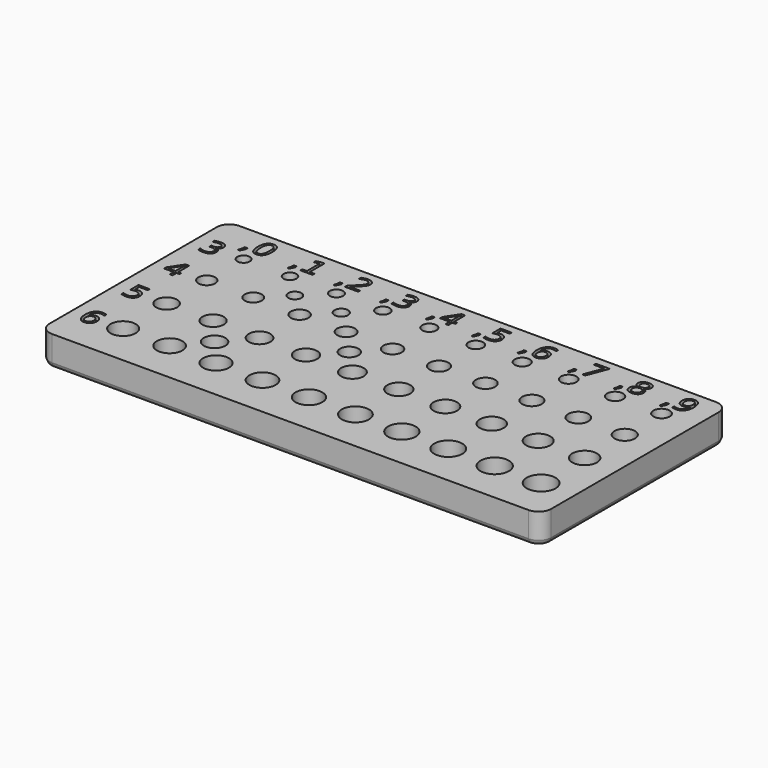
from build123d import *

# Parameters (mm, degrees)
SKETCH005_W     = 120
SKETCH005_H     = 56
SKETCH005_R     = 1.5
SKETCH005_R_2   = 1.55
SKETCH005_R_3   = 1.6
SKETCH005_R_4   = 1.65
SKETCH005_R_5   = 1.7
SKETCH005_R_6   = 1.75
SKETCH005_R_7   = 1.8
SKETCH005_R_8   = 1.85
SKETCH005_R_9   = 1.9
SKETCH005_R_10  = 1.95
SKETCH005_R_11  = 2
SKETCH005_R_12  = 2.05
SKETCH005_R_13  = 2.1
SKETCH005_R_14  = 2.15
SKETCH005_R_15  = 2.2
SKETCH005_R_16  = 2.25
SKETCH005_R_17  = 2.3
SKETCH005_R_18  = 2.35
SKETCH005_R_19  = 2.4
SKETCH005_R_20  = 2.45
SKETCH005_R_21  = 2.5
SKETCH005_R_22  = 2.55
SKETCH005_R_23  = 2.6
SKETCH005_R_24  = 2.65
SKETCH005_R_25  = 2.7
SKETCH005_R_26  = 2.75
SKETCH005_R_27  = 2.8
SKETCH005_R_28  = 2.85
SKETCH005_R_29  = 2.9
SKETCH005_R_30  = 2.95
SKETCH005_R_31  = 3
SKETCH005_R_32  = 3.05
SKETCH005_R_33  = 3.1
SKETCH005_R_34  = 3.15
SKETCH005_R_35  = 3.2
SKETCH005_R_36  = 3.25
SKETCH005_R_37  = 3.3
SKETCH005_R_38  = 3.35
SKETCH005_R_39  = 3.4
SKETCH005_R_40  = 3.45
SKETCH005_R_41  = 1.575
SKETCH005_R_42  = 1.625
SKETCH005_R_43  = 2.175
SKETCH005_R_44  = 2.575
PAD005_DEPTH    = 7
POCKET_DEPTH    = 1
FILLET_R        = 3
CHAMFER_SIZE    = 0.5
CHAMFER001_SIZE = 0.5


with BuildPart() as part:
    # Sketch005 → Pad005 (new body)
    with BuildSketch(Plane.XY):
        with Locations((96.377786, 17.919429)):
            Rectangle(SKETCH005_W, SKETCH005_H)
        with Locations((48.377786, 35.919429)):
            Circle(SKETCH005_R, mode=Mode.SUBTRACT)
        with Locations((59.488897, 35.919429)):
            Circle(SKETCH005_R_2, mode=Mode.SUBTRACT)
        with Locations((70.600008, 35.919429)):
            Circle(SKETCH005_R_3, mode=Mode.SUBTRACT)
        with Locations((81.711119, 35.919429)):
            Circle(SKETCH005_R_4, mode=Mode.SUBTRACT)
        with Locations((92.82223, 35.919429)):
            Circle(SKETCH005_R_5, mode=Mode.SUBTRACT)
        with Locations((103.933341, 35.919429)):
            Circle(SKETCH005_R_6, mode=Mode.SUBTRACT)
        with Locations((115.044452, 35.919429)):
            Circle(SKETCH005_R_7, mode=Mode.SUBTRACT)
        with Locations((126.155564, 35.919429)):
            Circle(SKETCH005_R_8, mode=Mode.SUBTRACT)
        with Locations((137.266675, 35.919429)):
            Circle(SKETCH005_R_9, mode=Mode.SUBTRACT)
        with Locations((148.377786, 35.919429)):
            Circle(SKETCH005_R_10, mode=Mode.SUBTRACT)
        with Locations((48.377786, 24.919429)):
            Circle(SKETCH005_R_11, mode=Mode.SUBTRACT)
        with Locations((59.488897, 24.919429)):
            Circle(SKETCH005_R_12, mode=Mode.SUBTRACT)
        with Locations((70.600008, 24.919429)):
            Circle(SKETCH005_R_13, mode=Mode.SUBTRACT)
        with Locations((81.711119, 24.919429)):
            Circle(SKETCH005_R_14, mode=Mode.SUBTRACT)
        with Locations((92.82223, 24.919429)):
            Circle(SKETCH005_R_15, mode=Mode.SUBTRACT)
        with Locations((103.933341, 24.919429)):
            Circle(SKETCH005_R_16, mode=Mode.SUBTRACT)
        with Locations((115.044452, 24.919429)):
            Circle(SKETCH005_R_17, mode=Mode.SUBTRACT)
        with Locations((126.155564, 24.919429)):
            Circle(SKETCH005_R_18, mode=Mode.SUBTRACT)
        with Locations((137.266675, 24.919429)):
            Circle(SKETCH005_R_19, mode=Mode.SUBTRACT)
        with Locations((148.377786, 24.919429)):
            Circle(SKETCH005_R_20, mode=Mode.SUBTRACT)
        with Locations((48.377786, 12.919429)):
            Circle(SKETCH005_R_21, mode=Mode.SUBTRACT)
        with Locations((59.488897, 12.919429)):
            Circle(SKETCH005_R_22, mode=Mode.SUBTRACT)
        with Locations((70.600008, 12.919429)):
            Circle(SKETCH005_R_23, mode=Mode.SUBTRACT)
        with Locations((81.711119, 12.919429)):
            Circle(SKETCH005_R_24, mode=Mode.SUBTRACT)
        with Locations((92.82223, 12.919429)):
            Circle(SKETCH005_R_25, mode=Mode.SUBTRACT)
        with Locations((103.933341, 12.919429)):
            Circle(SKETCH005_R_26, mode=Mode.SUBTRACT)
        with Locations((115.044452, 12.919429)):
            Circle(SKETCH005_R_27, mode=Mode.SUBTRACT)
        with Locations((126.155564, 12.919429)):
            Circle(SKETCH005_R_28, mode=Mode.SUBTRACT)
        with Locations((137.266675, 12.919429)):
            Circle(SKETCH005_R_29, mode=Mode.SUBTRACT)
        with Locations((148.377786, 12.919429)):
            Circle(SKETCH005_R_30, mode=Mode.SUBTRACT)
        with Locations((48.377786, -0.080571)):
            Circle(SKETCH005_R_31, mode=Mode.SUBTRACT)
        with Locations((59.488897, -0.080571)):
            Circle(SKETCH005_R_32, mode=Mode.SUBTRACT)
        with Locations((70.600008, -0.080571)):
            Circle(SKETCH005_R_33, mode=Mode.SUBTRACT)
        with Locations((81.711119, -0.080571)):
            Circle(SKETCH005_R_34, mode=Mode.SUBTRACT)
        with Locations((92.82223, -0.080571)):
            Circle(SKETCH005_R_35, mode=Mode.SUBTRACT)
        with Locations((103.933341, -0.080571)):
            Circle(SKETCH005_R_36, mode=Mode.SUBTRACT)
        with Locations((115.044452, -0.080571)):
            Circle(SKETCH005_R_37, mode=Mode.SUBTRACT)
        with Locations((126.155564, -0.080571)):
            Circle(SKETCH005_R_38, mode=Mode.SUBTRACT)
        with Locations((137.266675, -0.080571)):
            Circle(SKETCH005_R_39, mode=Mode.SUBTRACT)
        with Locations((148.377786, -0.080571)):
            Circle(SKETCH005_R_40, mode=Mode.SUBTRACT)
        with Locations((65.044452, 30.419429)):
            Circle(SKETCH005_R_41, mode=Mode.SUBTRACT)
        with Locations((76.155564, 30.419429)):
            Circle(SKETCH005_R_42, mode=Mode.SUBTRACT)
        with Locations((87.266675, 18.919429)):
            Circle(SKETCH005_R_43, mode=Mode.SUBTRACT)
        with Locations((65.044452, 6.419429)):
            Circle(SKETCH005_R_44, mode=Mode.SUBTRACT)
    extrude(amount=-PAD005_DEPTH)

    # Sketch006 → Pocket (cut)
    with BuildSketch(Plane.XY):
        Polygon((45.492522, 39.857143), (46.198995, 39.857143), (46.198995, 39.282812), (45.649888, 38.214286), (45.217969, 38.214286), (45.492522, 39.282812), align=None)
        with BuildLine():
            add(Edge.make_bspline(
                [(49.054353, 44.085714), (49.894754, 44.085714), (50.338281, 43.421205)],
                knots=[0, 0, 0, 1, 1, 1], degree=2))
            add(Edge.make_bspline(
                [(50.338281, 43.421205), (50.782031, 42.756696), (50.782031, 41.491295)],
                knots=[0, 0, 0, 1, 1, 1], degree=2))
            add(Edge.make_bspline(
                [(50.782031, 41.491295), (50.782031, 40.229018), (50.338281, 39.564509)],
                knots=[0, 0, 0, 1, 1, 1], degree=2))
            add(Edge.make_bspline(
                [(50.338281, 39.564509), (49.894754, 38.9), (49.054353, 38.9)],
                knots=[0, 0, 0, 1, 1, 1], degree=2))
            add(Edge.make_bspline(
                [(49.054353, 38.9), (48.213951, 38.9), (47.770201, 39.564509)],
                knots=[0, 0, 0, 1, 1, 1], degree=2))
            add(Edge.make_bspline(
                [(47.770201, 39.564509), (47.326674, 40.229018), (47.326674, 41.491295)],
                knots=[0, 0, 0, 1, 1, 1], degree=2))
            add(Edge.make_bspline(
                [(47.326674, 41.491295), (47.326674, 42.756696), (47.770201, 43.421205)],
                knots=[0, 0, 0, 1, 1, 1], degree=2))
            add(Edge.make_bspline(
                [(47.770201, 43.421205), (48.213951, 44.085714), (49.054353, 44.085714)],
                knots=[0, 0, 0, 1, 1, 1], degree=2))
        make_face()
        with BuildLine():
            add(Edge.make_bspline(
                [(49.054353, 43.542857), (48.532031, 43.542857), (48.269085, 43.030804)],
                knots=[0, 0, 0, 1, 1, 1], degree=2))
            add(Edge.make_bspline(
                [(48.269085, 43.030804), (48.006362, 42.51875), (48.006362, 41.491295)],
                knots=[0, 0, 0, 1, 1, 1], degree=2))
            add(Edge.make_bspline(
                [(48.006362, 41.491295), (48.006362, 40.466964), (48.269085, 39.954911)],
                knots=[0, 0, 0, 1, 1, 1], degree=2))
            add(Edge.make_bspline(
                [(48.269085, 39.954911), (48.532031, 39.442857), (49.054353, 39.442857)],
                knots=[0, 0, 0, 1, 1, 1], degree=2))
            add(Edge.make_bspline(
                [(49.054353, 39.442857), (49.580022, 39.442857), (49.842745, 39.954911)],
                knots=[0, 0, 0, 1, 1, 1], degree=2))
            add(Edge.make_bspline(
                [(49.842745, 39.954911), (50.105692, 40.466964), (50.105692, 41.491295)],
                knots=[0, 0, 0, 1, 1, 1], degree=2))
            add(Edge.make_bspline(
                [(50.105692, 41.491295), (50.105692, 42.51875), (49.842745, 43.030804)],
                knots=[0, 0, 0, 1, 1, 1], degree=2))
            add(Edge.make_bspline(
                [(49.842745, 43.030804), (49.580022, 43.542857), (49.054353, 43.542857)],
                knots=[0, 0, 0, 1, 1, 1], degree=2))
        make_face(mode=Mode.SUBTRACT)
        Polygon((57.274554, 39.857143), (57.981027, 39.857143), (57.981027, 39.282812), (57.43192, 38.214286), (57, 38.214286), (57.274554, 39.282812), align=None)
        Polygon((59.507143, 39.571429), (60.612054, 39.571429), (60.612054, 43.385714), (59.410045, 43.142857), (59.410045, 43.757143), (60.605357, 44), (61.281696, 44), (61.281696, 39.571429), (62.386607, 39.571429), (62.386607, 39), (59.507143, 39), align=None)
        Polygon((68.274554, 39.857143), (68.981027, 39.857143), (68.981027, 39.282812), (68.43192, 38.214286), (68, 38.214286), (68.274554, 39.282812), align=None)
        with BuildLine():
            Line((70.972545, 39.571429), (73.333036, 39.571429))
            Line((73.333036, 39.571429), (73.333036, 39))
            Line((73.333036, 39), (70.158929, 39))
            Line((70.158929, 39), (70.158929, 39.571429))
            add(Edge.make_bspline(
                [(70.158929, 39.571429), (70.543973, 39.968973), (71.208482, 40.638839)],
                knots=[0, 0, 0, 1, 1, 1], degree=2))
            add(Edge.make_bspline(
                [(71.208482, 40.638839), (71.873214, 41.308929), (72.043973, 41.502679)],
                knots=[0, 0, 0, 1, 1, 1], degree=2))
            add(Edge.make_bspline(
                [(72.043973, 41.502679), (72.36875, 41.866964), (72.497545, 42.119196)],
                knots=[0, 0, 0, 1, 1, 1], degree=2))
            add(Edge.make_bspline(
                [(72.497545, 42.119196), (72.626562, 42.371429), (72.626562, 42.615402)],
                knots=[0, 0, 0, 1, 1, 1], degree=2))
            add(Edge.make_bspline(
                [(72.626562, 42.615402), (72.626562, 43.01317), (72.346875, 43.263616)],
                knots=[0, 0, 0, 1, 1, 1], degree=2))
            add(Edge.make_bspline(
                [(72.346875, 43.263616), (72.067411, 43.514286), (71.61875, 43.514286)],
                knots=[0, 0, 0, 1, 1, 1], degree=2))
            add(Edge.make_bspline(
                [(71.61875, 43.514286), (71.30067, 43.514286), (70.947321, 43.404241)],
                knots=[0, 0, 0, 1, 1, 1], degree=2))
            add(Edge.make_bspline(
                [(70.947321, 43.404241), (70.594196, 43.29442), (70.192411, 43.071429)],
                knots=[0, 0, 0, 1, 1, 1], degree=2))
            Line((70.192411, 43.071429), (70.192411, 43.757143))
            add(Edge.make_bspline(
                [(70.192411, 43.757143), (70.600893, 43.919866), (70.955804, 44.002679)],
                knots=[0, 0, 0, 1, 1, 1], degree=2))
            add(Edge.make_bspline(
                [(70.955804, 44.002679), (71.310714, 44.085714), (71.605357, 44.085714)],
                knots=[0, 0, 0, 1, 1, 1], degree=2))
            add(Edge.make_bspline(
                [(71.605357, 44.085714), (72.382143, 44.085714), (72.844196, 43.697768)],
                knots=[0, 0, 0, 1, 1, 1], degree=2))
            add(Edge.make_bspline(
                [(72.844196, 43.697768), (73.30625, 43.309821), (73.30625, 42.661161)],
                knots=[0, 0, 0, 1, 1, 1], degree=2))
            add(Edge.make_bspline(
                [(73.30625, 42.661161), (73.30625, 42.353571), (73.190625, 42.077679)],
                knots=[0, 0, 0, 1, 1, 1], degree=2))
            add(Edge.make_bspline(
                [(73.190625, 42.077679), (73.075223, 41.801786), (72.770536, 41.427232)],
                knots=[0, 0, 0, 1, 1, 1], degree=2))
            add(Edge.make_bspline(
                [(72.770536, 41.427232), (72.68683, 41.330357), (72.23817, 40.867188)],
                knots=[0, 0, 0, 1, 1, 1], degree=2))
            add(Edge.make_bspline(
                [(72.23817, 40.867188), (71.789509, 40.404018), (70.972545, 39.571429)],
                knots=[0, 0, 0, 1, 1, 1], degree=2))
        make_face()
        Polygon((79.274554, 39.857143), (79.981027, 39.857143), (79.981027, 39.282812), (79.43192, 38.214286), (79, 38.214286), (79.274554, 39.282812), align=None)
        with BuildLine():
            add(Edge.make_bspline(
                [(83.439062, 41.687723), (83.924554, 41.584152), (84.197321, 41.256473)],
                knots=[0, 0, 0, 1, 1, 1], degree=2))
            add(Edge.make_bspline(
                [(84.197321, 41.256473), (84.470312, 40.929018), (84.470312, 40.447545)],
                knots=[0, 0, 0, 1, 1, 1], degree=2))
            add(Edge.make_bspline(
                [(84.470312, 40.447545), (84.470312, 39.708929), (83.961384, 39.304464)],
                knots=[0, 0, 0, 1, 1, 1], degree=2))
            add(Edge.make_bspline(
                [(83.961384, 39.304464), (83.452455, 38.9), (82.514955, 38.9)],
                knots=[0, 0, 0, 1, 1, 1], degree=2))
            add(Edge.make_bspline(
                [(82.514955, 38.9), (82.200223, 38.9), (81.866964, 38.960714)],
                knots=[0, 0, 0, 1, 1, 1], degree=2))
            add(Edge.make_bspline(
                [(81.866964, 38.960714), (81.533929, 39.021429), (81.179018, 39.142857)],
                knots=[0, 0, 0, 1, 1, 1], degree=2))
            Line((81.179018, 39.142857), (81.179018, 39.8))
            add(Edge.make_bspline(
                [(81.179018, 39.8), (81.460268, 39.637277), (81.795089, 39.554241)],
                knots=[0, 0, 0, 1, 1, 1], degree=2))
            add(Edge.make_bspline(
                [(81.795089, 39.554241), (82.129911, 39.471429), (82.494866, 39.471429)],
                knots=[0, 0, 0, 1, 1, 1], degree=2))
            add(Edge.make_bspline(
                [(82.494866, 39.471429), (83.131027, 39.471429), (83.464062, 39.721429)],
                knots=[0, 0, 0, 1, 1, 1], degree=2))
            add(Edge.make_bspline(
                [(83.464062, 39.721429), (83.797321, 39.971652), (83.797321, 40.448661)],
                knots=[0, 0, 0, 1, 1, 1], degree=2))
            add(Edge.make_bspline(
                [(83.797321, 40.448661), (83.797321, 40.888839), (83.4875, 41.137277)],
                knots=[0, 0, 0, 1, 1, 1], degree=2))
            add(Edge.make_bspline(
                [(83.4875, 41.137277), (83.177902, 41.385714), (82.625446, 41.385714)],
                knots=[0, 0, 0, 1, 1, 1], degree=2))
            Line((82.625446, 41.385714), (82.042857, 41.385714))
            Line((82.042857, 41.385714), (82.042857, 41.942857))
            Line((82.042857, 41.942857), (82.652232, 41.942857))
            add(Edge.make_bspline(
                [(82.652232, 41.942857), (83.151116, 41.942857), (83.415625, 42.142187)],
                knots=[0, 0, 0, 1, 1, 1], degree=2))
            add(Edge.make_bspline(
                [(83.415625, 42.142187), (83.680134, 42.341518), (83.680134, 42.716741)],
                knots=[0, 0, 0, 1, 1, 1], degree=2))
            add(Edge.make_bspline(
                [(83.680134, 42.716741), (83.680134, 43.102232), (83.407143, 43.308259)],
                knots=[0, 0, 0, 1, 1, 1], degree=2))
            add(Edge.make_bspline(
                [(83.407143, 43.308259), (83.134375, 43.514286), (82.625446, 43.514286)],
                knots=[0, 0, 0, 1, 1, 1], degree=2))
            add(Edge.make_bspline(
                [(82.625446, 43.514286), (82.347545, 43.514286), (82.029464, 43.455134)],
                knots=[0, 0, 0, 1, 1, 1], degree=2))
            add(Edge.make_bspline(
                [(82.029464, 43.455134), (81.711384, 43.396205), (81.329687, 43.271429)],
                knots=[0, 0, 0, 1, 1, 1], degree=2))
            Line((81.329687, 43.271429), (81.329687, 43.871429))
            add(Edge.make_bspline(
                [(81.329687, 43.871429), (81.714732, 43.978571), (82.051116, 44.032143)],
                knots=[0, 0, 0, 1, 1, 1], degree=2))
            add(Edge.make_bspline(
                [(82.051116, 44.032143), (82.387723, 44.085714), (82.685714, 44.085714)],
                knots=[0, 0, 0, 1, 1, 1], degree=2))
            add(Edge.make_bspline(
                [(82.685714, 44.085714), (83.455804, 44.085714), (83.904464, 43.735268)],
                knots=[0, 0, 0, 1, 1, 1], degree=2))
            add(Edge.make_bspline(
                [(83.904464, 43.735268), (84.353125, 43.384821), (84.353125, 42.787723)],
                knots=[0, 0, 0, 1, 1, 1], degree=2))
            add(Edge.make_bspline(
                [(84.353125, 42.787723), (84.353125, 42.371875), (84.115402, 42.085045)],
                knots=[0, 0, 0, 1, 1, 1], degree=2))
            add(Edge.make_bspline(
                [(84.115402, 42.085045), (83.877679, 41.798437), (83.439062, 41.687723)],
                knots=[0, 0, 0, 1, 1, 1], degree=2))
        make_face()
        Polygon((90.274554, 39.857143), (90.981027, 39.857143), (90.981027, 39.282812), (90.43192, 38.214286), (90, 38.214286), (90.274554, 39.282812), align=None)
        Polygon((94.070759, 44), (94.921205, 44), (94.921205, 40.742857), (95.634375, 40.742857), (95.634375, 40.185714), (94.921205, 40.185714), (94.921205, 39), (94.248214, 39), (94.248214, 40.185714), (91.991518, 40.185714), (91.991518, 40.8375), align=None)
        Polygon((94.248214, 43.410938), (92.540625, 40.742857), (94.248214, 40.742857), align=None, mode=Mode.SUBTRACT)
        Polygon((101.274554, 39.857143), (101.981027, 39.857143), (101.981027, 39.282812), (101.43192, 38.214286), (101, 38.214286), (101.274554, 39.282812), align=None)
        with BuildLine():
            Line((103.396652, 44), (106.051786, 44))
            Line((106.051786, 44), (106.051786, 43.428571))
            Line((106.051786, 43.428571), (104.016071, 43.428571))
            Line((104.016071, 43.428571), (104.016071, 42.199107))
            add(Edge.make_bspline(
                [(104.016071, 42.199107), (104.163393, 42.249554), (104.310714, 42.274777)],
                knots=[0, 0, 0, 1, 1, 1], degree=2))
            add(Edge.make_bspline(
                [(104.310714, 42.274777), (104.458036, 42.3), (104.605357, 42.3)],
                knots=[0, 0, 0, 1, 1, 1], degree=2))
            add(Edge.make_bspline(
                [(104.605357, 42.3), (105.442411, 42.3), (105.93125, 41.841518)],
                knots=[0, 0, 0, 1, 1, 1], degree=2))
            add(Edge.make_bspline(
                [(105.93125, 41.841518), (106.420089, 41.383036), (106.420089, 40.6)],
                knots=[0, 0, 0, 1, 1, 1], degree=2))
            add(Edge.make_bspline(
                [(106.420089, 40.6), (106.420089, 39.793527), (105.917857, 39.346652)],
                knots=[0, 0, 0, 1, 1, 1], degree=2))
            add(Edge.make_bspline(
                [(105.917857, 39.346652), (105.415625, 38.9), (104.501562, 38.9)],
                knots=[0, 0, 0, 1, 1, 1], degree=2))
            add(Edge.make_bspline(
                [(104.501562, 38.9), (104.18683, 38.9), (103.860268, 38.953571)],
                knots=[0, 0, 0, 1, 1, 1], degree=2))
            add(Edge.make_bspline(
                [(103.860268, 38.953571), (103.533929, 39.007143), (103.185714, 39.114286)],
                knots=[0, 0, 0, 1, 1, 1], degree=2))
            Line((103.185714, 39.114286), (103.185714, 39.8))
            add(Edge.make_bspline(
                [(103.185714, 39.8), (103.487054, 39.633929), (103.808482, 39.552679)],
                knots=[0, 0, 0, 1, 1, 1], degree=2))
            add(Edge.make_bspline(
                [(103.808482, 39.552679), (104.129911, 39.471429), (104.48817, 39.471429)],
                knots=[0, 0, 0, 1, 1, 1], degree=2))
            add(Edge.make_bspline(
                [(104.48817, 39.471429), (105.067411, 39.471429), (105.40558, 39.775223)],
                knots=[0, 0, 0, 1, 1, 1], degree=2))
            add(Edge.make_bspline(
                [(105.40558, 39.775223), (105.74375, 40.079018), (105.74375, 40.6)],
                knots=[0, 0, 0, 1, 1, 1], degree=2))
            add(Edge.make_bspline(
                [(105.74375, 40.6), (105.74375, 41.120982), (105.40558, 41.424777)],
                knots=[0, 0, 0, 1, 1, 1], degree=2))
            add(Edge.make_bspline(
                [(105.40558, 41.424777), (105.067411, 41.728571), (104.48817, 41.728571)],
                knots=[0, 0, 0, 1, 1, 1], degree=2))
            add(Edge.make_bspline(
                [(104.48817, 41.728571), (104.216964, 41.728571), (103.947321, 41.66942)],
                knots=[0, 0, 0, 1, 1, 1], degree=2))
            add(Edge.make_bspline(
                [(103.947321, 41.66942), (103.677902, 41.610491), (103.396652, 41.485714)],
                knots=[0, 0, 0, 1, 1, 1], degree=2))
            Line((103.396652, 41.485714), (103.396652, 44))
        make_face()
        Polygon((112.274554, 39.857143), (112.981027, 39.857143), (112.981027, 39.282812), (112.43192, 38.214286), (112, 38.214286), (112.274554, 39.282812), align=None)
        with BuildLine():
            Line((117.262723, 43.885714), (117.262723, 43.271429))
            add(Edge.make_bspline(
                [(117.262723, 43.271429), (117.008259, 43.389509), (116.748661, 43.451786)],
                knots=[0, 0, 0, 1, 1, 1], degree=2))
            add(Edge.make_bspline(
                [(116.748661, 43.451786), (116.489286, 43.514286), (116.234821, 43.514286)],
                knots=[0, 0, 0, 1, 1, 1], degree=2))
            add(Edge.make_bspline(
                [(116.234821, 43.514286), (115.565179, 43.514286), (115.21183, 43.060938)],
                knots=[0, 0, 0, 1, 1, 1], degree=2))
            add(Edge.make_bspline(
                [(115.21183, 43.060938), (114.858705, 42.607589), (114.808482, 41.690625)],
                knots=[0, 0, 0, 1, 1, 1], degree=2))
            add(Edge.make_bspline(
                [(114.808482, 41.690625), (115.006027, 41.985268), (115.304018, 42.142634)],
                knots=[0, 0, 0, 1, 1, 1], degree=2))
            add(Edge.make_bspline(
                [(115.304018, 42.142634), (115.602009, 42.3), (115.960268, 42.3)],
                knots=[0, 0, 0, 1, 1, 1], degree=2))
            add(Edge.make_bspline(
                [(115.960268, 42.3), (116.713616, 42.3), (117.150446, 41.84308)],
                knots=[0, 0, 0, 1, 1, 1], degree=2))
            add(Edge.make_bspline(
                [(117.150446, 41.84308), (117.5875, 41.386384), (117.5875, 40.6)],
                knots=[0, 0, 0, 1, 1, 1], degree=2))
            add(Edge.make_bspline(
                [(117.5875, 40.6), (117.5875, 39.830357), (117.132143, 39.365179)],
                knots=[0, 0, 0, 1, 1, 1], degree=2))
            add(Edge.make_bspline(
                [(117.132143, 39.365179), (116.676786, 38.9), (115.920089, 38.9)],
                knots=[0, 0, 0, 1, 1, 1], degree=2))
            add(Edge.make_bspline(
                [(115.920089, 38.9), (115.052902, 38.9), (114.594196, 39.564509)],
                knots=[0, 0, 0, 1, 1, 1], degree=2))
            add(Edge.make_bspline(
                [(114.594196, 39.564509), (114.135491, 40.229018), (114.135491, 41.491295)],
                knots=[0, 0, 0, 1, 1, 1], degree=2))
            add(Edge.make_bspline(
                [(114.135491, 41.491295), (114.135491, 42.676339), (114.697991, 43.381027)],
                knots=[0, 0, 0, 1, 1, 1], degree=2))
            add(Edge.make_bspline(
                [(114.697991, 43.381027), (115.260491, 44.085714), (116.208036, 44.085714)],
                knots=[0, 0, 0, 1, 1, 1], degree=2))
            add(Edge.make_bspline(
                [(116.208036, 44.085714), (116.4625, 44.085714), (116.721875, 44.035714)],
                knots=[0, 0, 0, 1, 1, 1], degree=2))
            add(Edge.make_bspline(
                [(116.721875, 44.035714), (116.981473, 43.985714), (117.262723, 43.885714)],
                knots=[0, 0, 0, 1, 1, 1], degree=2))
        make_face()
        with BuildLine():
            add(Edge.make_bspline(
                [(115.920089, 41.757143), (115.464732, 41.757143), (115.198437, 41.447768)],
                knots=[0, 0, 0, 1, 1, 1], degree=2))
            add(Edge.make_bspline(
                [(115.198437, 41.447768), (114.932366, 41.138616), (114.932366, 40.6)],
                knots=[0, 0, 0, 1, 1, 1], degree=2))
            add(Edge.make_bspline(
                [(114.932366, 40.6), (114.932366, 40.064732), (115.198437, 39.753795)],
                knots=[0, 0, 0, 1, 1, 1], degree=2))
            add(Edge.make_bspline(
                [(115.198437, 39.753795), (115.464732, 39.442857), (115.920089, 39.442857)],
                knots=[0, 0, 0, 1, 1, 1], degree=2))
            add(Edge.make_bspline(
                [(115.920089, 39.442857), (116.375446, 39.442857), (116.641518, 39.753795)],
                knots=[0, 0, 0, 1, 1, 1], degree=2))
            add(Edge.make_bspline(
                [(116.641518, 39.753795), (116.907812, 40.064732), (116.907812, 40.6)],
                knots=[0, 0, 0, 1, 1, 1], degree=2))
            add(Edge.make_bspline(
                [(116.907812, 40.6), (116.907812, 41.138616), (116.641518, 41.447768)],
                knots=[0, 0, 0, 1, 1, 1], degree=2))
            add(Edge.make_bspline(
                [(116.641518, 41.447768), (116.375446, 41.757143), (115.920089, 41.757143)],
                knots=[0, 0, 0, 1, 1, 1], degree=2))
        make_face(mode=Mode.SUBTRACT)
        Polygon((124.274554, 39.857143), (124.981027, 39.857143), (124.981027, 39.282812), (124.43192, 38.214286), (124, 38.214286), (124.274554, 39.282812), align=None)
        Polygon((126.219196, 44), (129.433482, 44), (129.433482, 43.712054), (127.61875, 39), (126.912277, 39), (128.619866, 43.428571), (126.219196, 43.428571), align=None)
        Polygon((135.274554, 39.857143), (135.981027, 39.857143), (135.981027, 39.282812), (135.43192, 38.214286), (135, 38.214286), (135.274554, 39.282812), align=None)
        with BuildLine():
            add(Edge.make_bspline(
                [(138.160045, 41.657366), (137.724777, 41.764509), (137.48192, 42.0625)],
                knots=[0, 0, 0, 1, 1, 1], degree=2))
            add(Edge.make_bspline(
                [(137.48192, 42.0625), (137.239286, 42.360714), (137.239286, 42.789509)],
                knots=[0, 0, 0, 1, 1, 1], degree=2))
            add(Edge.make_bspline(
                [(137.239286, 42.789509), (137.239286, 43.389063), (137.666071, 43.737277)],
                knots=[0, 0, 0, 1, 1, 1], degree=2))
            add(Edge.make_bspline(
                [(137.666071, 43.737277), (138.09308, 44.085714), (138.836384, 44.085714)],
                knots=[0, 0, 0, 1, 1, 1], degree=2))
            add(Edge.make_bspline(
                [(138.836384, 44.085714), (139.583036, 44.085714), (140.008259, 43.737277)],
                knots=[0, 0, 0, 1, 1, 1], degree=2))
            add(Edge.make_bspline(
                [(140.008259, 43.737277), (140.433482, 43.389063), (140.433482, 42.789509)],
                knots=[0, 0, 0, 1, 1, 1], degree=2))
            add(Edge.make_bspline(
                [(140.433482, 42.789509), (140.433482, 42.360714), (140.190625, 42.0625)],
                knots=[0, 0, 0, 1, 1, 1], degree=2))
            add(Edge.make_bspline(
                [(140.190625, 42.0625), (139.947991, 41.764509), (139.516071, 41.657366)],
                knots=[0, 0, 0, 1, 1, 1], degree=2))
            add(Edge.make_bspline(
                [(139.516071, 41.657366), (140.004911, 41.543527), (140.277679, 41.212277)],
                knots=[0, 0, 0, 1, 1, 1], degree=2))
            add(Edge.make_bspline(
                [(140.277679, 41.212277), (140.55067, 40.881027), (140.55067, 40.402455)],
                knots=[0, 0, 0, 1, 1, 1], degree=2))
            add(Edge.make_bspline(
                [(140.55067, 40.402455), (140.55067, 39.676339), (140.10692, 39.28817)],
                knots=[0, 0, 0, 1, 1, 1], degree=2))
            add(Edge.make_bspline(
                [(140.10692, 39.28817), (139.663393, 38.9), (138.836384, 38.9)],
                knots=[0, 0, 0, 1, 1, 1], degree=2))
            add(Edge.make_bspline(
                [(138.836384, 38.9), (138.009375, 38.9), (137.565625, 39.28817)],
                knots=[0, 0, 0, 1, 1, 1], degree=2))
            add(Edge.make_bspline(
                [(137.565625, 39.28817), (137.122098, 39.676339), (137.122098, 40.402455)],
                knots=[0, 0, 0, 1, 1, 1], degree=2))
            add(Edge.make_bspline(
                [(137.122098, 40.402455), (137.122098, 40.881027), (137.396652, 41.212277)],
                knots=[0, 0, 0, 1, 1, 1], degree=2))
            add(Edge.make_bspline(
                [(137.396652, 41.212277), (137.671205, 41.543527), (138.160045, 41.657366)],
                knots=[0, 0, 0, 1, 1, 1], degree=2))
        make_face()
        with BuildLine():
            add(Edge.make_bspline(
                [(138.836384, 41.371429), (138.354241, 41.371429), (138.077902, 41.114509)],
                knots=[0, 0, 0, 1, 1, 1], degree=2))
            add(Edge.make_bspline(
                [(138.077902, 41.114509), (137.801786, 40.857589), (137.801786, 40.407143)],
                knots=[0, 0, 0, 1, 1, 1], degree=2))
            add(Edge.make_bspline(
                [(137.801786, 40.407143), (137.801786, 39.956696), (138.077902, 39.699777)],
                knots=[0, 0, 0, 1, 1, 1], degree=2))
            add(Edge.make_bspline(
                [(138.077902, 39.699777), (138.354241, 39.442857), (138.836384, 39.442857)],
                knots=[0, 0, 0, 1, 1, 1], degree=2))
            add(Edge.make_bspline(
                [(138.836384, 39.442857), (139.318527, 39.442857), (139.596429, 39.701339)],
                knots=[0, 0, 0, 1, 1, 1], degree=2))
            add(Edge.make_bspline(
                [(139.596429, 39.701339), (139.87433, 39.960045), (139.87433, 40.407143)],
                knots=[0, 0, 0, 1, 1, 1], degree=2))
            add(Edge.make_bspline(
                [(139.87433, 40.407143), (139.87433, 40.857589), (139.597991, 41.114509)],
                knots=[0, 0, 0, 1, 1, 1], degree=2))
            add(Edge.make_bspline(
                [(139.597991, 41.114509), (139.321875, 41.371429), (138.836384, 41.371429)],
                knots=[0, 0, 0, 1, 1, 1], degree=2))
        make_face(mode=Mode.SUBTRACT)
        with BuildLine():
            add(Edge.make_bspline(
                [(137.912277, 42.721429), (137.912277, 42.334152), (138.154911, 42.116964)],
                knots=[0, 0, 0, 1, 1, 1], degree=2))
            add(Edge.make_bspline(
                [(138.154911, 42.116964), (138.397768, 41.9), (138.836384, 41.9)],
                knots=[0, 0, 0, 1, 1, 1], degree=2))
            add(Edge.make_bspline(
                [(138.836384, 41.9), (139.271652, 41.9), (139.517634, 42.116964)],
                knots=[0, 0, 0, 1, 1, 1], degree=2))
            add(Edge.make_bspline(
                [(139.517634, 42.116964), (139.763839, 42.334152), (139.763839, 42.721429)],
                knots=[0, 0, 0, 1, 1, 1], degree=2))
            add(Edge.make_bspline(
                [(139.763839, 42.721429), (139.763839, 43.108705), (139.517634, 43.32567)],
                knots=[0, 0, 0, 1, 1, 1], degree=2))
            add(Edge.make_bspline(
                [(139.517634, 43.32567), (139.271652, 43.542857), (138.836384, 43.542857)],
                knots=[0, 0, 0, 1, 1, 1], degree=2))
            add(Edge.make_bspline(
                [(138.836384, 43.542857), (138.397768, 43.542857), (138.154911, 43.32567)],
                knots=[0, 0, 0, 1, 1, 1], degree=2))
            add(Edge.make_bspline(
                [(138.154911, 43.32567), (137.912277, 43.108705), (137.912277, 42.721429)],
                knots=[0, 0, 0, 1, 1, 1], degree=2))
        make_face(mode=Mode.SUBTRACT)
        Polygon((146.274554, 39.857143), (146.981027, 39.857143), (146.981027, 39.282812), (146.43192, 38.214286), (146, 38.214286), (146.274554, 39.282812), align=None)
        with BuildLine():
            Line((148.410045, 39.1), (148.410045, 39.714286))
            add(Edge.make_bspline(
                [(148.410045, 39.714286), (148.664509, 39.596205), (148.92567, 39.533705)],
                knots=[0, 0, 0, 1, 1, 1], degree=2))
            add(Edge.make_bspline(
                [(148.92567, 39.533705), (149.18683, 39.471429), (149.437946, 39.471429)],
                knots=[0, 0, 0, 1, 1, 1], degree=2))
            add(Edge.make_bspline(
                [(149.437946, 39.471429), (150.107589, 39.471429), (150.460714, 39.922991)],
                knots=[0, 0, 0, 1, 1, 1], degree=2))
            add(Edge.make_bspline(
                [(150.460714, 39.922991), (150.814063, 40.374777), (150.864286, 41.295089)],
                knots=[0, 0, 0, 1, 1, 1], degree=2))
            add(Edge.make_bspline(
                [(150.864286, 41.295089), (150.670089, 41.007589), (150.372098, 40.853795)],
                knots=[0, 0, 0, 1, 1, 1], degree=2))
            add(Edge.make_bspline(
                [(150.372098, 40.853795), (150.074107, 40.7), (149.7125, 40.7)],
                knots=[0, 0, 0, 1, 1, 1], degree=2))
            add(Edge.make_bspline(
                [(149.7125, 40.7), (148.9625, 40.7), (148.525446, 41.152455)],
                knots=[0, 0, 0, 1, 1, 1], degree=2))
            add(Edge.make_bspline(
                [(148.525446, 41.152455), (148.088616, 41.604911), (148.088616, 42.389509)],
                knots=[0, 0, 0, 1, 1, 1], degree=2))
            add(Edge.make_bspline(
                [(148.088616, 42.389509), (148.088616, 43.157589), (148.543973, 43.621652)],
                knots=[0, 0, 0, 1, 1, 1], degree=2))
            add(Edge.make_bspline(
                [(148.543973, 43.621652), (148.99933, 44.085714), (149.756027, 44.085714)],
                knots=[0, 0, 0, 1, 1, 1], degree=2))
            add(Edge.make_bspline(
                [(149.756027, 44.085714), (150.623214, 44.085714), (151.080134, 43.421205)],
                knots=[0, 0, 0, 1, 1, 1], degree=2))
            add(Edge.make_bspline(
                [(151.080134, 43.421205), (151.537277, 42.756696), (151.537277, 41.491295)],
                knots=[0, 0, 0, 1, 1, 1], degree=2))
            add(Edge.make_bspline(
                [(151.537277, 41.491295), (151.537277, 40.309375), (150.976339, 39.604687)],
                knots=[0, 0, 0, 1, 1, 1], degree=2))
            add(Edge.make_bspline(
                [(150.976339, 39.604687), (150.415625, 38.9), (149.46808, 38.9)],
                knots=[0, 0, 0, 1, 1, 1], degree=2))
            add(Edge.make_bspline(
                [(149.46808, 38.9), (149.213616, 38.9), (148.952455, 38.95)],
                knots=[0, 0, 0, 1, 1, 1], degree=2))
            add(Edge.make_bspline(
                [(148.952455, 38.95), (148.691295, 39), (148.410045, 39.1)],
                knots=[0, 0, 0, 1, 1, 1], degree=2))
        make_face()
        with BuildLine():
            add(Edge.make_bspline(
                [(149.756027, 41.228571), (150.211384, 41.228571), (150.477455, 41.537723)],
                knots=[0, 0, 0, 1, 1, 1], degree=2))
            add(Edge.make_bspline(
                [(150.477455, 41.537723), (150.74375, 41.847098), (150.74375, 42.385714)],
                knots=[0, 0, 0, 1, 1, 1], degree=2))
            add(Edge.make_bspline(
                [(150.74375, 42.385714), (150.74375, 42.920982), (150.477455, 43.23192)],
                knots=[0, 0, 0, 1, 1, 1], degree=2))
            add(Edge.make_bspline(
                [(150.477455, 43.23192), (150.211384, 43.542857), (149.756027, 43.542857)],
                knots=[0, 0, 0, 1, 1, 1], degree=2))
            add(Edge.make_bspline(
                [(149.756027, 43.542857), (149.30067, 43.542857), (149.034375, 43.23192)],
                knots=[0, 0, 0, 1, 1, 1], degree=2))
            add(Edge.make_bspline(
                [(149.034375, 43.23192), (148.768304, 42.920982), (148.768304, 42.385714)],
                knots=[0, 0, 0, 1, 1, 1], degree=2))
            add(Edge.make_bspline(
                [(148.768304, 42.385714), (148.768304, 41.847098), (149.034375, 41.537723)],
                knots=[0, 0, 0, 1, 1, 1], degree=2))
            add(Edge.make_bspline(
                [(149.034375, 41.537723), (149.30067, 41.228571), (149.756027, 41.228571)],
                knots=[0, 0, 0, 1, 1, 1], degree=2))
        make_face(mode=Mode.SUBTRACT)
        with BuildLine():
            add(Edge.make_bspline(
                [(41.614397, 36.187723), (42.099888, 36.084152), (42.372656, 35.756473)],
                knots=[0, 0, 0, 1, 1, 1], degree=2))
            add(Edge.make_bspline(
                [(42.372656, 35.756473), (42.645647, 35.429018), (42.645647, 34.947545)],
                knots=[0, 0, 0, 1, 1, 1], degree=2))
            add(Edge.make_bspline(
                [(42.645647, 34.947545), (42.645647, 34.208929), (42.136719, 33.804464)],
                knots=[0, 0, 0, 1, 1, 1], degree=2))
            add(Edge.make_bspline(
                [(42.136719, 33.804464), (41.62779, 33.4), (40.69029, 33.4)],
                knots=[0, 0, 0, 1, 1, 1], degree=2))
            add(Edge.make_bspline(
                [(40.69029, 33.4), (40.375558, 33.4), (40.042299, 33.460714)],
                knots=[0, 0, 0, 1, 1, 1], degree=2))
            add(Edge.make_bspline(
                [(40.042299, 33.460714), (39.709263, 33.521429), (39.354353, 33.642857)],
                knots=[0, 0, 0, 1, 1, 1], degree=2))
            Line((39.354353, 33.642857), (39.354353, 34.3))
            add(Edge.make_bspline(
                [(39.354353, 34.3), (39.635603, 34.137277), (39.970424, 34.054241)],
                knots=[0, 0, 0, 1, 1, 1], degree=2))
            add(Edge.make_bspline(
                [(39.970424, 34.054241), (40.305246, 33.971429), (40.670201, 33.971429)],
                knots=[0, 0, 0, 1, 1, 1], degree=2))
            add(Edge.make_bspline(
                [(40.670201, 33.971429), (41.306362, 33.971429), (41.639397, 34.221429)],
                knots=[0, 0, 0, 1, 1, 1], degree=2))
            add(Edge.make_bspline(
                [(41.639397, 34.221429), (41.972656, 34.471652), (41.972656, 34.948661)],
                knots=[0, 0, 0, 1, 1, 1], degree=2))
            add(Edge.make_bspline(
                [(41.972656, 34.948661), (41.972656, 35.388839), (41.662835, 35.637277)],
                knots=[0, 0, 0, 1, 1, 1], degree=2))
            add(Edge.make_bspline(
                [(41.662835, 35.637277), (41.353237, 35.885714), (40.800781, 35.885714)],
                knots=[0, 0, 0, 1, 1, 1], degree=2))
            Line((40.800781, 35.885714), (40.218192, 35.885714))
            Line((40.218192, 35.885714), (40.218192, 36.442857))
            Line((40.218192, 36.442857), (40.827567, 36.442857))
            add(Edge.make_bspline(
                [(40.827567, 36.442857), (41.326451, 36.442857), (41.59096, 36.642187)],
                knots=[0, 0, 0, 1, 1, 1], degree=2))
            add(Edge.make_bspline(
                [(41.59096, 36.642187), (41.855469, 36.841518), (41.855469, 37.216741)],
                knots=[0, 0, 0, 1, 1, 1], degree=2))
            add(Edge.make_bspline(
                [(41.855469, 37.216741), (41.855469, 37.602232), (41.582478, 37.808259)],
                knots=[0, 0, 0, 1, 1, 1], degree=2))
            add(Edge.make_bspline(
                [(41.582478, 37.808259), (41.30971, 38.014286), (40.800781, 38.014286)],
                knots=[0, 0, 0, 1, 1, 1], degree=2))
            add(Edge.make_bspline(
                [(40.800781, 38.014286), (40.522879, 38.014286), (40.204799, 37.955134)],
                knots=[0, 0, 0, 1, 1, 1], degree=2))
            add(Edge.make_bspline(
                [(40.204799, 37.955134), (39.886719, 37.896205), (39.505022, 37.771429)],
                knots=[0, 0, 0, 1, 1, 1], degree=2))
            Line((39.505022, 37.771429), (39.505022, 38.371429))
            add(Edge.make_bspline(
                [(39.505022, 38.371429), (39.890067, 38.478571), (40.226451, 38.532143)],
                knots=[0, 0, 0, 1, 1, 1], degree=2))
            add(Edge.make_bspline(
                [(40.226451, 38.532143), (40.563058, 38.585714), (40.861049, 38.585714)],
                knots=[0, 0, 0, 1, 1, 1], degree=2))
            add(Edge.make_bspline(
                [(40.861049, 38.585714), (41.631138, 38.585714), (42.079799, 38.235268)],
                knots=[0, 0, 0, 1, 1, 1], degree=2))
            add(Edge.make_bspline(
                [(42.079799, 38.235268), (42.52846, 37.884821), (42.52846, 37.287723)],
                knots=[0, 0, 0, 1, 1, 1], degree=2))
            add(Edge.make_bspline(
                [(42.52846, 37.287723), (42.52846, 36.871875), (42.290737, 36.585045)],
                knots=[0, 0, 0, 1, 1, 1], degree=2))
            add(Edge.make_bspline(
                [(42.290737, 36.585045), (42.053013, 36.298437), (41.614397, 36.187723)],
                knots=[0, 0, 0, 1, 1, 1], degree=2))
        make_face()
        Polygon((41.257812, 27.5), (42.108259, 27.5), (42.108259, 24.242857), (42.821429, 24.242857), (42.821429, 23.685714), (42.108259, 23.685714), (42.108259, 22.5), (41.435268, 22.5), (41.435268, 23.685714), (39.178571, 23.685714), (39.178571, 24.3375), align=None)
        Polygon((41.435268, 26.910937), (39.727679, 24.242857), (41.435268, 24.242857), align=None, mode=Mode.SUBTRACT)
        with BuildLine():
            Line((39.59375, 15.5), (42.248884, 15.5))
            Line((42.248884, 15.5), (42.248884, 14.928571))
            Line((42.248884, 14.928571), (40.21317, 14.928571))
            Line((40.21317, 14.928571), (40.21317, 13.699107))
            add(Edge.make_bspline(
                [(40.21317, 13.699107), (40.360491, 13.749554), (40.507812, 13.774777)],
                knots=[0, 0, 0, 1, 1, 1], degree=2))
            add(Edge.make_bspline(
                [(40.507812, 13.774777), (40.655134, 13.8), (40.802455, 13.8)],
                knots=[0, 0, 0, 1, 1, 1], degree=2))
            add(Edge.make_bspline(
                [(40.802455, 13.8), (41.639509, 13.8), (42.128348, 13.341518)],
                knots=[0, 0, 0, 1, 1, 1], degree=2))
            add(Edge.make_bspline(
                [(42.128348, 13.341518), (42.617188, 12.883036), (42.617188, 12.1)],
                knots=[0, 0, 0, 1, 1, 1], degree=2))
            add(Edge.make_bspline(
                [(42.617188, 12.1), (42.617188, 11.293527), (42.114955, 10.846652)],
                knots=[0, 0, 0, 1, 1, 1], degree=2))
            add(Edge.make_bspline(
                [(42.114955, 10.846652), (41.612723, 10.4), (40.698661, 10.4)],
                knots=[0, 0, 0, 1, 1, 1], degree=2))
            add(Edge.make_bspline(
                [(40.698661, 10.4), (40.383929, 10.4), (40.057366, 10.453571)],
                knots=[0, 0, 0, 1, 1, 1], degree=2))
            add(Edge.make_bspline(
                [(40.057366, 10.453571), (39.731027, 10.507143), (39.382812, 10.614286)],
                knots=[0, 0, 0, 1, 1, 1], degree=2))
            Line((39.382812, 10.614286), (39.382812, 11.3))
            add(Edge.make_bspline(
                [(39.382812, 11.3), (39.684152, 11.133929), (40.00558, 11.052679)],
                knots=[0, 0, 0, 1, 1, 1], degree=2))
            add(Edge.make_bspline(
                [(40.00558, 11.052679), (40.327009, 10.971429), (40.685268, 10.971429)],
                knots=[0, 0, 0, 1, 1, 1], degree=2))
            add(Edge.make_bspline(
                [(40.685268, 10.971429), (41.264509, 10.971429), (41.602679, 11.275223)],
                knots=[0, 0, 0, 1, 1, 1], degree=2))
            add(Edge.make_bspline(
                [(41.602679, 11.275223), (41.940848, 11.579018), (41.940848, 12.1)],
                knots=[0, 0, 0, 1, 1, 1], degree=2))
            add(Edge.make_bspline(
                [(41.940848, 12.1), (41.940848, 12.620982), (41.602679, 12.924777)],
                knots=[0, 0, 0, 1, 1, 1], degree=2))
            add(Edge.make_bspline(
                [(41.602679, 12.924777), (41.264509, 13.228571), (40.685268, 13.228571)],
                knots=[0, 0, 0, 1, 1, 1], degree=2))
            add(Edge.make_bspline(
                [(40.685268, 13.228571), (40.414062, 13.228571), (40.14442, 13.16942)],
                knots=[0, 0, 0, 1, 1, 1], degree=2))
            add(Edge.make_bspline(
                [(40.14442, 13.16942), (39.875, 13.110491), (39.59375, 12.985714)],
                knots=[0, 0, 0, 1, 1, 1], degree=2))
            Line((39.59375, 12.985714), (39.59375, 15.5))
        make_face()
        with BuildLine():
            Line((42.401228, 2.385714), (42.401228, 1.771429))
            add(Edge.make_bspline(
                [(42.401228, 1.771429), (42.146763, 1.889509), (41.887165, 1.951786)],
                knots=[0, 0, 0, 1, 1, 1], degree=2))
            add(Edge.make_bspline(
                [(41.887165, 1.951786), (41.62779, 2.014286), (41.373326, 2.014286)],
                knots=[0, 0, 0, 1, 1, 1], degree=2))
            add(Edge.make_bspline(
                [(41.373326, 2.014286), (40.703683, 2.014286), (40.350335, 1.560937)],
                knots=[0, 0, 0, 1, 1, 1], degree=2))
            add(Edge.make_bspline(
                [(40.350335, 1.560937), (39.99721, 1.107589), (39.946987, 0.190625)],
                knots=[0, 0, 0, 1, 1, 1], degree=2))
            add(Edge.make_bspline(
                [(39.946987, 0.190625), (40.144531, 0.485268), (40.442522, 0.642634)],
                knots=[0, 0, 0, 1, 1, 1], degree=2))
            add(Edge.make_bspline(
                [(40.442522, 0.642634), (40.740513, 0.8), (41.098772, 0.8)],
                knots=[0, 0, 0, 1, 1, 1], degree=2))
            add(Edge.make_bspline(
                [(41.098772, 0.8), (41.852121, 0.8), (42.288951, 0.34308)],
                knots=[0, 0, 0, 1, 1, 1], degree=2))
            add(Edge.make_bspline(
                [(42.288951, 0.34308), (42.726004, -0.113616), (42.726004, -0.9)],
                knots=[0, 0, 0, 1, 1, 1], degree=2))
            add(Edge.make_bspline(
                [(42.726004, -0.9), (42.726004, -1.669643), (42.270647, -2.134821)],
                knots=[0, 0, 0, 1, 1, 1], degree=2))
            add(Edge.make_bspline(
                [(42.270647, -2.134821), (41.81529, -2.6), (41.058594, -2.6)],
                knots=[0, 0, 0, 1, 1, 1], degree=2))
            add(Edge.make_bspline(
                [(41.058594, -2.6), (40.191406, -2.6), (39.732701, -1.935491)],
                knots=[0, 0, 0, 1, 1, 1], degree=2))
            add(Edge.make_bspline(
                [(39.732701, -1.935491), (39.273996, -1.270982), (39.273996, -0.008705)],
                knots=[0, 0, 0, 1, 1, 1], degree=2))
            add(Edge.make_bspline(
                [(39.273996, -0.008705), (39.273996, 1.176339), (39.836496, 1.881027)],
                knots=[0, 0, 0, 1, 1, 1], degree=2))
            add(Edge.make_bspline(
                [(39.836496, 1.881027), (40.398996, 2.585714), (41.34654, 2.585714)],
                knots=[0, 0, 0, 1, 1, 1], degree=2))
            add(Edge.make_bspline(
                [(41.34654, 2.585714), (41.601004, 2.585714), (41.860379, 2.535714)],
                knots=[0, 0, 0, 1, 1, 1], degree=2))
            add(Edge.make_bspline(
                [(41.860379, 2.535714), (42.119978, 2.485714), (42.401228, 2.385714)],
                knots=[0, 0, 0, 1, 1, 1], degree=2))
        make_face()
        with BuildLine():
            add(Edge.make_bspline(
                [(41.058594, 0.257143), (40.603237, 0.257143), (40.336942, -0.052232)],
                knots=[0, 0, 0, 1, 1, 1], degree=2))
            add(Edge.make_bspline(
                [(40.336942, -0.052232), (40.070871, -0.361384), (40.070871, -0.9)],
                knots=[0, 0, 0, 1, 1, 1], degree=2))
            add(Edge.make_bspline(
                [(40.070871, -0.9), (40.070871, -1.435268), (40.336942, -1.746205)],
                knots=[0, 0, 0, 1, 1, 1], degree=2))
            add(Edge.make_bspline(
                [(40.336942, -1.746205), (40.603237, -2.057143), (41.058594, -2.057143)],
                knots=[0, 0, 0, 1, 1, 1], degree=2))
            add(Edge.make_bspline(
                [(41.058594, -2.057143), (41.513951, -2.057143), (41.780022, -1.746205)],
                knots=[0, 0, 0, 1, 1, 1], degree=2))
            add(Edge.make_bspline(
                [(41.780022, -1.746205), (42.046317, -1.435268), (42.046317, -0.9)],
                knots=[0, 0, 0, 1, 1, 1], degree=2))
            add(Edge.make_bspline(
                [(42.046317, -0.9), (42.046317, -0.361384), (41.780022, -0.052232)],
                knots=[0, 0, 0, 1, 1, 1], degree=2))
            add(Edge.make_bspline(
                [(41.780022, -0.052232), (41.513951, 0.257143), (41.058594, 0.257143)],
                knots=[0, 0, 0, 1, 1, 1], degree=2))
        make_face(mode=Mode.SUBTRACT)
    extrude(amount=-POCKET_DEPTH, mode=Mode.SUBTRACT)

    # Fillet
    fillet_edges = [part.edges().sort_by_distance(p)[0] for p in [
        (156.377786, 45.919429, -3.5),
        (156.377786, -10.080571, -3.5),
        (36.377786, -10.080571, -3.5),
        (36.377786, 45.919429, -3.5),
    ]]
    fillet(fillet_edges, radius=FILLET_R)

    # Chamfer
    chamfer_edges = [part.edges().sort_by_distance(p)[0] for p in [
        (96.377786, 45.919429, -7),
    ]]
    chamfer(chamfer_edges, length=CHAMFER_SIZE)

    # Chamfer001
    chamfer001_edges = [part.edges().sort_by_distance(p)[0] for p in [
        (96.377786, 45.919429, -6.5),
    ]]
    chamfer(chamfer001_edges, length=CHAMFER001_SIZE)


solid = part.part
